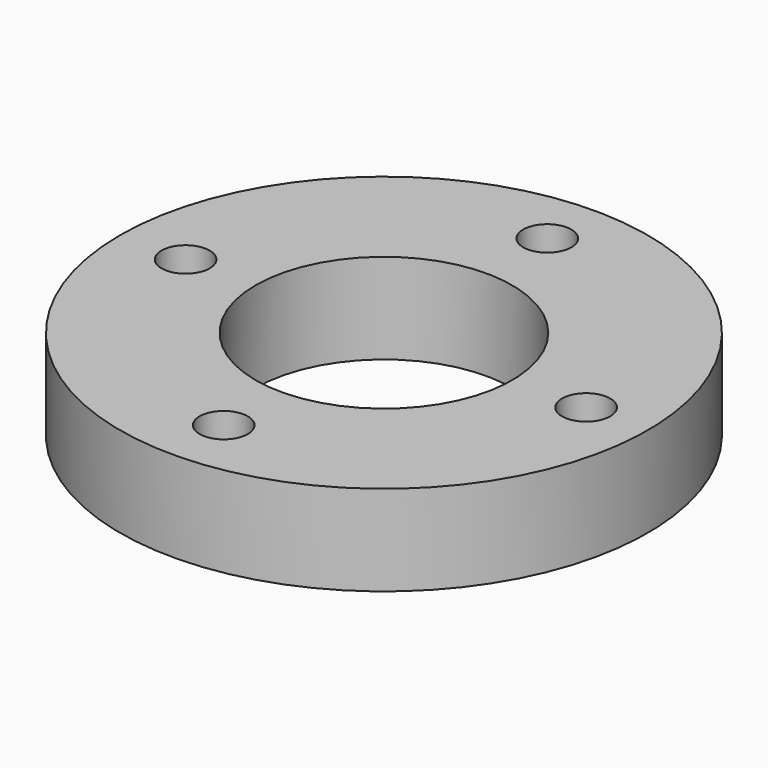
from build123d import *

# Parameters (mm, degrees)
F0_W           = 35.7202775776
F0_H           = 23.8135214895
F3_D           = 12.7
F3_CSINK_D     = 25.4
F3_CSINK_ANGLE = 90


with BuildPart() as f1:
    # F0 (on Front) → F1 (revolve)
    with BuildSketch(Plane.XZ):
        with Locations((-51.6861584038, 11.9067607448)):
            Rectangle(F0_W, F0_H)
    revolve(axis=Axis((0, 0, -4.6003386378), (0, 0, -1)))

    # F3 (through all)
    with Locations(Plane(origin=(0, 0, 0), x_dir=(1, 0, 0), z_dir=(0, 0, -1))):
        with Locations((53.2817654312, 0), (0, 52.7627815072), (-52.2488526769, 0), (0, -53.8058541715)):
            CounterSinkHole(F3_D / 2, F3_CSINK_D / 2, counter_sink_angle=F3_CSINK_ANGLE)


solid = f1.part
